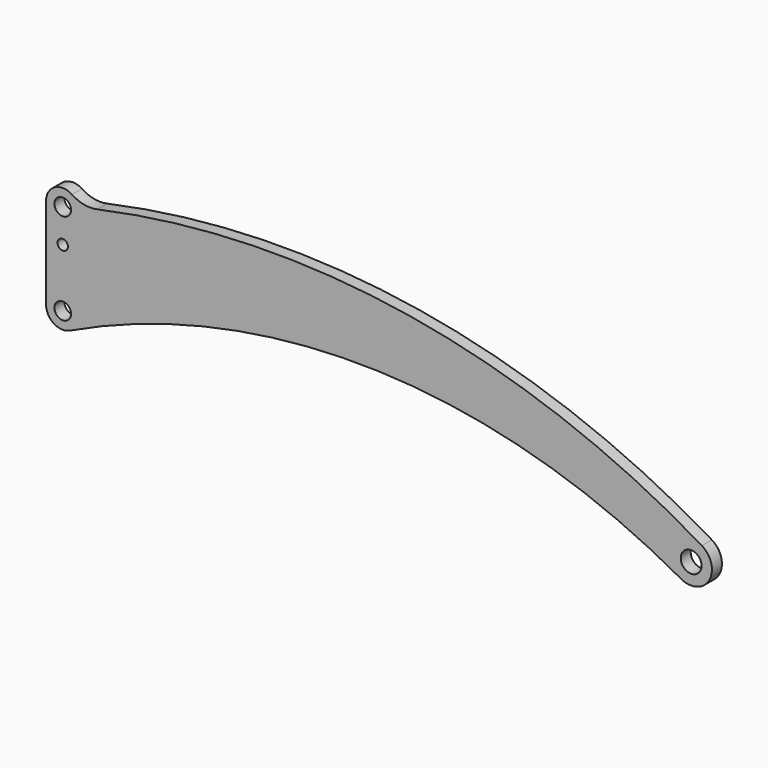
from build123d import *

# Parameters (mm, degrees)
F0_R     = 3.175
F0_R_2   = 3.96875
F0_R_3   = 1.984375
F1_DEPTH = 4.7625


with BuildPart() as f1:
    # F0 (on Front) → F1 (new body)
    with BuildSketch(Plane.XZ):
        with BuildLine():
            ThreePointArc((9.860095, 46.566667), (3.347218, 46.870159), (0, 41.275))
            Line((0, 41.275), (0, 6.35))
            ThreePointArc((0, 6.35), (2.964048, 0.978051), (9.089081, 0.621131))
            ThreePointArc((9.089081, 0.621131), (126.555864, 25.267368), (242.182661, -6.924648))
            ThreePointArc((242.182661, -6.924648), (252.929822, -3.980426), (250.142666, 6.808535))
            ThreePointArc((250.142666, 6.808535), (138.474992, 47.75611), (19.574735, 44.73912))
            ThreePointArc((19.574735, 44.73912), (14.532309, 44.668934), (9.860095, 46.566667))
        make_face()
        with Locations((6.35, 6.35)):
            Circle(F0_R, mode=Mode.SUBTRACT)
        with Locations((246.0625, 0)):
            Circle(F0_R_2, mode=Mode.SUBTRACT)
        with Locations((6.35, 28.575)):
            Circle(F0_R_3, mode=Mode.SUBTRACT)
        with Locations((6.35, 41.275)):
            Circle(F0_R, mode=Mode.SUBTRACT)
    extrude(amount=F1_DEPTH)


solid = f1.part
